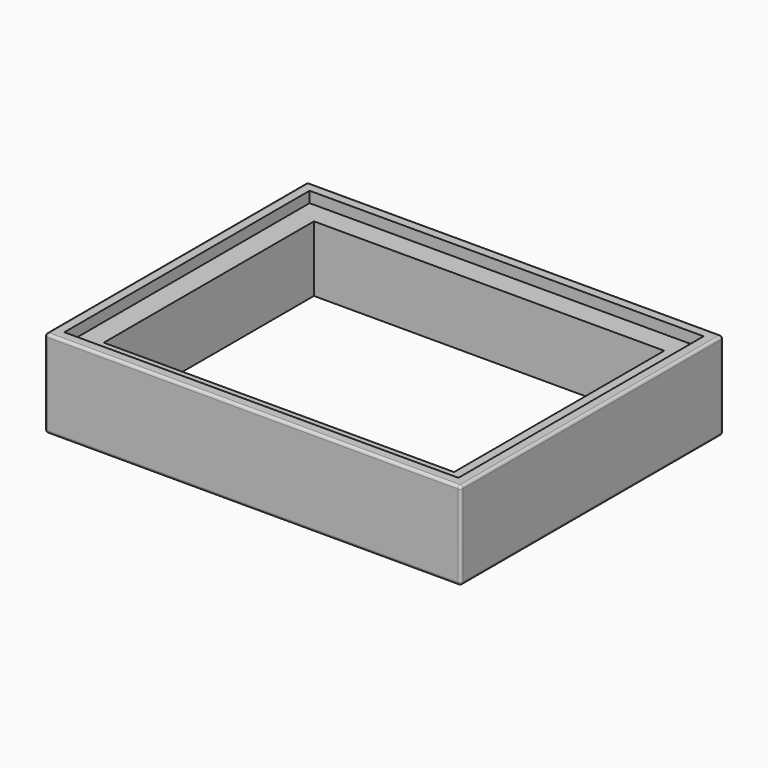
from build123d import *

# Parameters (mm, degrees)
F0_W     = 241.3
F0_H     = 50.8
F1_DEPTH = 190.5
F2_W     = 203.2
F2_H     = 152.4
F3_DEPTH = 50.8
F4_W     = 228.6
F4_H     = 177.8
F5_DEPTH = 6.35
F6_W     = 228.6
F6_H     = 177.8
F7_DEPTH = 6.35
F8_R     = 1.5875


with BuildPart() as f1:
    # F0 (on Front) → F1 (new body)
    with BuildSketch(Plane.XZ):
        with Locations((120.65, 25.4)):
            Rectangle(F0_W, F0_H)
    extrude(amount=-F1_DEPTH)

    # F2 (on face) → F3 (cut, through all)
    with BuildSketch(Plane.XY.offset(50.8)):
        with Locations((120.65, 95.25)):
            Rectangle(F2_W, F2_H)
    extrude(amount=-F3_DEPTH, mode=Mode.SUBTRACT)

    # F4 (on face) → F5 (cut)
    with BuildSketch(Plane.XY.offset(50.8)):
        with Locations((120.65, 95.25)):
            Rectangle(F4_W, F4_H)
    extrude(amount=-F5_DEPTH, mode=Mode.SUBTRACT)

    # F6 (on face) → F7 (cut)
    with BuildSketch(Plane(origin=(0, 0, 0), x_dir=(1, 0, 0), z_dir=(0, 0, -1))):
        with Locations((120.65, -95.25)):
            Rectangle(F6_W, F6_H)
    extrude(amount=-F7_DEPTH, mode=Mode.SUBTRACT)

    # F8
    f8_edges = [f1.edges().sort_by_distance(p)[0] for p in [
        (120.65, 0, 50.8),
        (0, 0, 25.4),
        (0, 95.25, 50.8),
        (241.3, 0, 25.4),
        (241.3, 95.25, 50.8),
        (120.65, 190.5, 50.8),
        (241.3, 190.5, 25.4),
        (0, 190.5, 25.4),
        (120.65, 190.5, 0),
        (0, 95.25, 0),
        (120.65, 0, 0),
        (241.3, 95.25, 0),
    ]]
    fillet(f8_edges, radius=F8_R)


solid = f1.part
